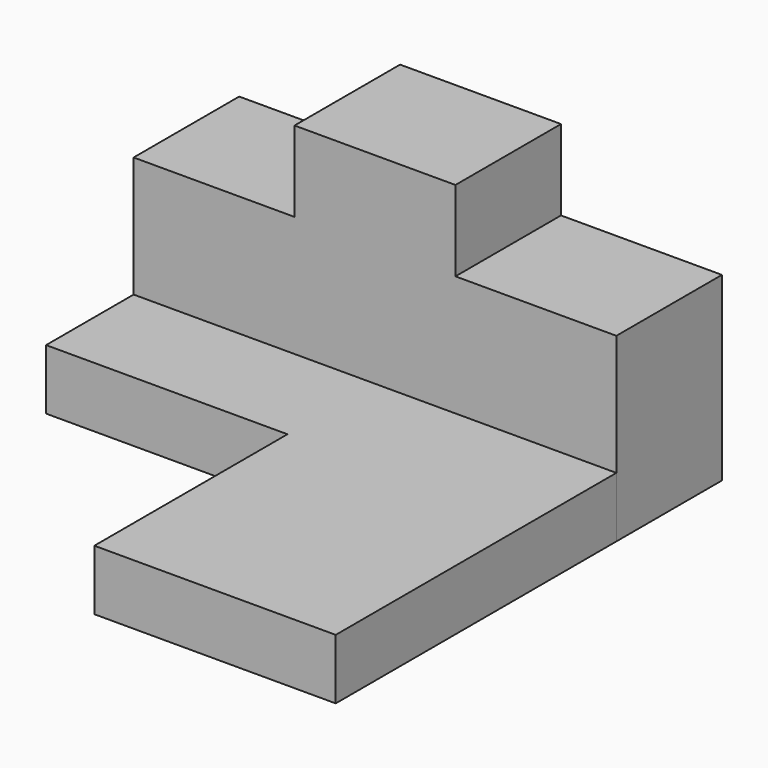
from build123d import *

# Parameters (mm, degrees)
F1_DEPTH = 15
F3_DEPTH = 15
F5_DEPTH = 32.8


with BuildPart() as f1:
    # F0 (on Top) → F1 (new body)
    with BuildSketch(Plane.XY):
        Polygon((0, -120), (0, 0), (-120, 0), (-120, -60), (-60, -60), (-60, -120), align=None)
    extrude(amount=F1_DEPTH)

    # F2 (on face) → F3 (join)
    with BuildSketch(Plane(origin=(0, 0, 0), x_dir=(-1, 0, 0), z_dir=(0, 1, 0))):
        Polygon((0, 45), (0, 15), (120, 15), (120, 45), (80, 45), (80, 65), (40, 65), (40, 45), align=None)
    extrude(amount=-F3_DEPTH)


with BuildPart() as f5:
    # F4 (on face) → F5 (new body)
    with BuildSketch(Plane(origin=(0, 0, 0), x_dir=(-1, 0, 0), z_dir=(0, 1, 0))):
        Polygon((0, 45), (0, 0), (120, 0), (120, 45), (80, 45), (80, 65), (40, 65), (40, 45), align=None)
    extrude(amount=-F5_DEPTH)


solid = Compound([f1.part, f5.part])
